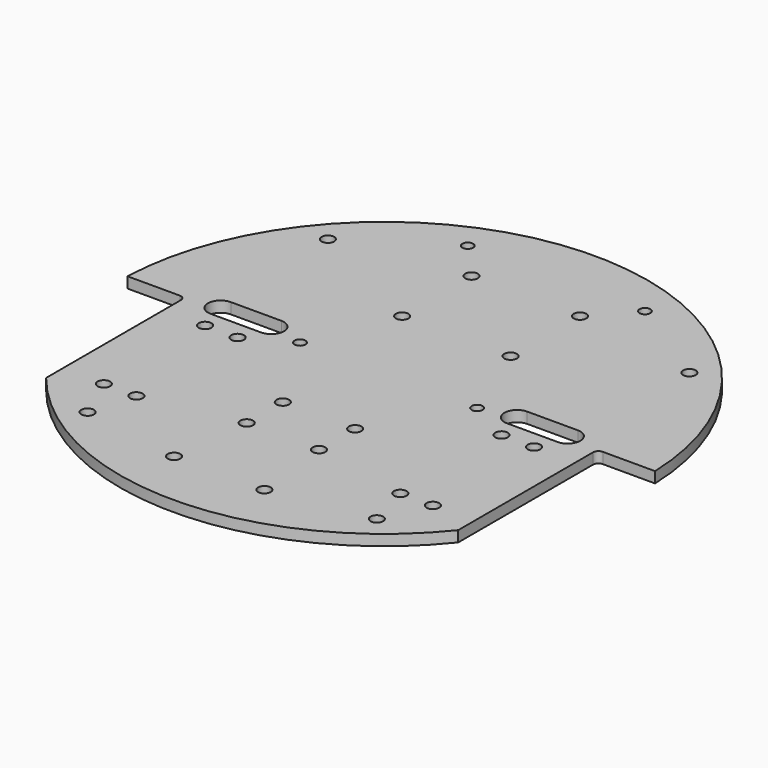
from build123d import *

# Parameters (mm, degrees)
SKETCH_R        = 73
SKETCH_R_2      = 1.75
PAD_DEPTH       = 3
SKETCH001_R     = 1.75
POCKET_DEPTH    = 415.994947
SKETCH002_R     = 1.75
POCKET001_DEPTH = 3.001
POCKET002_DEPTH = 3.001
SKETCH004_R     = 1.75
SKETCH004_R_2   = 1.5
POCKET003_DEPTH = 3.001


with BuildPart() as part:
    # Sketch → Pad (new body)
    with BuildSketch(Plane.XY):
        Circle(SKETCH_R)
        with Locations((-15, 49)):
            Circle(SKETCH_R_2, mode=Mode.SUBTRACT)
        with Locations((15, 49)):
            Circle(SKETCH_R_2, mode=Mode.SUBTRACT)
        with Locations((15, 25)):
            Circle(SKETCH_R_2, mode=Mode.SUBTRACT)
        with Locations((-15, 25)):
            Circle(SKETCH_R_2, mode=Mode.SUBTRACT)
    extrude(amount=PAD_DEPTH)

    # Sketch001 (on Face7 of Pad) → Pocket (cut, through all)
    with BuildSketch(Plane.XY.offset(3)):
        with Locations((-45.5, -5)):
            Circle(SKETCH001_R)
        with Locations((-36.5, -5)):
            Circle(SKETCH001_R)
        with Locations((-45.5, -40)):
            Circle(SKETCH001_R)
        with Locations((-36.5, -40)):
            Circle(SKETCH001_R)
        with Locations((-10, -22.5)):
            Circle(SKETCH001_R)
        with BuildLine():
            Line((-77, 2.5), (-58.5, 2.5))
            ThreePointArc((-57, 1), (-57.43934, 2.06066), (-58.5, 2.5))
            Line((-57, 1), (-57, -47.5))
            Line((-57, -47.5), (-77, -47.5))
            Line((-77, -47.5), (-77, 2.5))
        make_face()
    pocket = extrude(amount=-POCKET_DEPTH, mode=Mode.SUBTRACT)

    # Mirrored: Pocket across YZ
    add(pocket.mirror(Plane.YZ), mode=Mode.SUBTRACT)

    # Sketch002 (on Face4 of Mirrored) → Pocket001 (cut, through all)
    with BuildSketch(Plane.XY.offset(3)):
        with Locations((-40, -52.497619)):
            Circle(SKETCH002_R)
        with Locations((40, -52.497619)):
            Circle(SKETCH002_R)
        with Locations((-50, 43.081318)):
            Circle(SKETCH002_R)
        with Locations((50, 43.081318)):
            Circle(SKETCH002_R)
    extrude(amount=-POCKET001_DEPTH, mode=Mode.SUBTRACT)

    # Sketch003 (on Face4 of Pocket001) → Pocket002 (cut, through all)
    with BuildSketch(Plane.XY.offset(3)):
        with BuildLine():
            ThreePointArc((-48, 7), (-51.5, 3.5), (-48, 0))
            Line((-48, 0), (-34, 0))
            ThreePointArc((-34, 0), (-30.5, 3.5), (-34, 7))
            Line((-48, 7), (-34, 7))
        make_face()
        with BuildLine():
            ThreePointArc((34, 7), (30.5, 3.5), (34, 0))
            Line((34, 0), (48, 0))
            ThreePointArc((48, 0), (51.5, 3.5), (48, 7))
            Line((34, 7), (48, 7))
        make_face()
    extrude(amount=-POCKET002_DEPTH, mode=Mode.SUBTRACT)

    # Sketch004 (on Face4 of Pocket002) → Pocket003 (cut, through all)
    with BuildSketch(Plane.XY.offset(3)):
        with Locations((-12.5, -57)):
            Circle(SKETCH004_R)
        with Locations((12.5, -57)):
            Circle(SKETCH004_R)
        with Locations((-24.5, 59.56346)):
            Circle(SKETCH004_R_2)
        with Locations((24.5, 59.56346)):
            Circle(SKETCH004_R_2)
        with Locations((-24.5, 1.56346)):
            Circle(SKETCH004_R_2)
        with Locations((24.5, 1.56346)):
            Circle(SKETCH004_R_2)
        with Locations((-10, -35)):
            Circle(SKETCH004_R)
        with Locations((10, -35)):
            Circle(SKETCH004_R)
    extrude(amount=-POCKET003_DEPTH, mode=Mode.SUBTRACT)


solid = part.part
